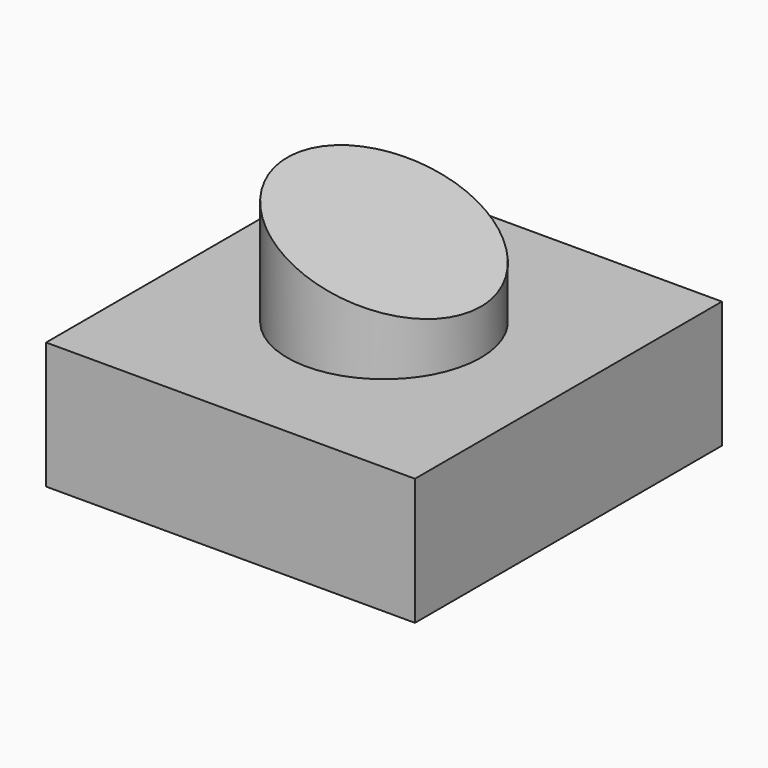
from build123d import *

# Parameters (mm, degrees)
F0_W     = 73.845298
F0_H     = 76.810576
F1_DEPTH = 25.4
F2_R     = 19.363369
F3_DEPTH = 25.4
F5_DEPTH = 25.4


with BuildPart() as f1:
    # F0 (on Top) → F1 (new body)
    with BuildSketch(Plane.XY):
        Rectangle(F0_W, F0_H)
    extrude(amount=F1_DEPTH)

    # F2 (on face) → F3 (join)
    with BuildSketch(Plane.XY.offset(25.4)):
        Circle(F2_R)
    extrude(amount=F3_DEPTH)

    # F4 (on Front) → F5 (cut, symmetric)
    with BuildSketch(Plane.XZ):
        Polygon((20.831788, 68.200894), (-42.327017, 56.259107), (49.757458, 23.61821), align=None)
    extrude(amount=F5_DEPTH, both=True, mode=Mode.SUBTRACT)


solid = f1.part
